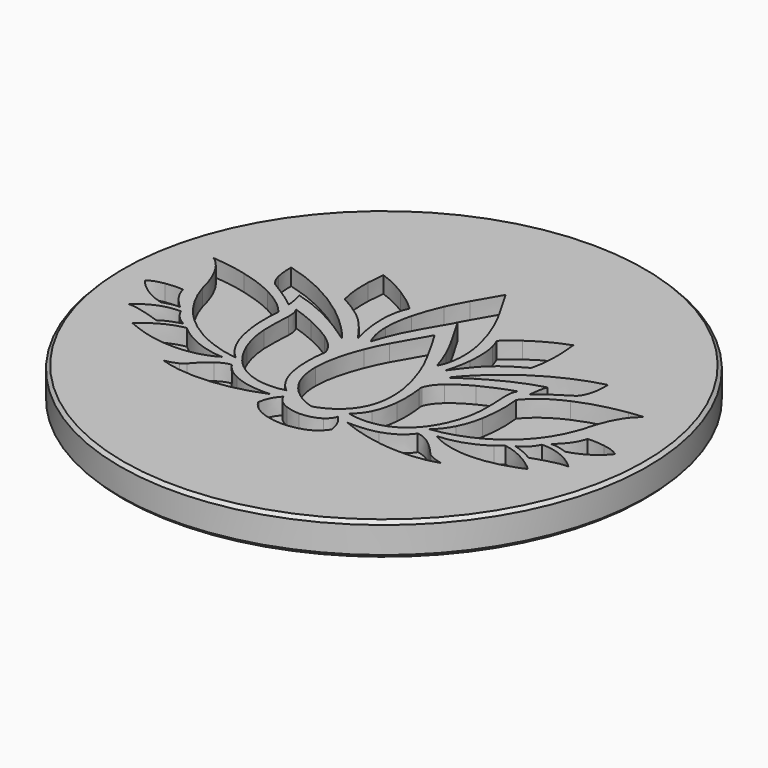
from build123d import *

# Parameters (mm, degrees)
POCKET_DEPTH = 1.25


with BuildPart() as part:
    # Sketch (on DatumPlane) → Revolution (revolve)
    with BuildSketch(Plane.YZ):
        Polygon((0, 0), (0, -2.5), (19.75, -2.5), (20, -2.25), (20, -0.25), (19.75, 0), align=None)
    revolve(axis=Axis((0, 0, 0), (0, 0, 1)))

    # Sketch005 → Pocket (cut)
    with BuildSketch(Plane.XY):
        with BuildLine():
            add(Edge.make_bspline(
                [(-1.147823, 9.565874), (-0.780123, 10.232438), (-0.409062, 10.897473), (-0.008941, 11.545074)],
                knots=[0, 0, 0, 0, 1, 1, 1, 1], degree=3))
            add(Edge.make_bspline(
                [(-0.008941, 11.545074), (0.378947, 10.91583), (0.741138, 10.270981), (1.098125, 9.623384)],
                knots=[0, 0, 0, 0, 1, 1, 1, 1], degree=3))
            add(Edge.make_bspline(
                [(1.098125, 9.623384), (1.365489, 9.125983), (1.654874, 8.638676), (1.874208, 8.117107)],
                knots=[0, 0, 0, 0, 1, 1, 1, 1], degree=3))
            add(Edge.make_bspline(
                [(1.874208, 8.117107), (2.390571, 6.93234), (2.811496, 5.684559), (2.909694, 4.388136)],
                knots=[0, 0, 0, 0, 1, 1, 1, 1], degree=3))
            add(Edge.make_bspline(
                [(2.909694, 4.388136), (2.967817, 3.545061), (2.880324, 2.662832), (2.490603, 1.901744)],
                knots=[0, 0, 0, 0, 1, 1, 1, 1], degree=3))
            add(Edge.make_bspline(
                [(2.490603, 1.901744), (2.316851, 2.470117), (2.103023, 3.026249), (1.864111, 3.570147)],
                knots=[0, 0, 0, 0, 1, 1, 1, 1], degree=3))
            add(Edge.make_bspline(
                [(1.864111, 3.570147), (1.630399, 4.123221), (1.321437, 4.638975), (1.03817, 5.16666)],
                knots=[0, 0, 0, 0, 1, 1, 1, 1], degree=3))
            add(Edge.make_bspline(
                [(1.03817, 5.16666), (0.699536, 5.778163), (0.356307, 6.387219), (-0.00894, 6.982815)],
                knots=[0, 0, 0, 0, 1, 1, 1, 1], degree=3))
            add(Edge.make_bspline(
                [(-0.00894, 6.982815), (-0.367765, 6.397925), (-0.705484, 5.800494), (-1.038003, 5.200003)],
                knots=[0, 0, 0, 0, 1, 1, 1, 1], degree=3))
            add(Edge.make_bspline(
                [(-1.038003, 5.200003), (-1.271103, 4.77021), (-1.514907, 4.345615), (-1.730571, 3.906642)],
                knots=[0, 0, 0, 0, 1, 1, 1, 1], degree=3))
            add(Edge.make_bspline(
                [(-1.730571, 3.906642), (-2.029748, 3.259648), (-2.294657, 2.596145), (-2.506344, 1.915201)],
                knots=[0, 0, 0, 0, 1, 1, 1, 1], degree=3))
            add(Edge.make_bspline(
                [(-2.506344, 1.915201), (-2.512155, 1.915814), (-2.523473, 1.917651), (-2.529288, 1.918569)],
                knots=[0, 0, 0, 0, 1, 1, 1, 1], degree=3))
            add(Edge.make_bspline(
                [(-2.529288, 1.918569), (-2.81684, 2.513858), (-2.939814, 3.178588), (-2.945928, 3.836588)],
                knots=[0, 0, 0, 0, 1, 1, 1, 1], degree=3))
            add(Edge.make_bspline(
                [(-2.945928, 3.836588), (-2.956328, 4.550262), (-2.840696, 5.260576), (-2.662049, 5.949774)],
                knots=[0, 0, 0, 0, 1, 1, 1, 1], degree=3))
            add(Edge.make_bspline(
                [(-2.662049, 5.949774), (-2.473918, 6.675382), (-2.213289, 7.380183), (-1.91442, 8.066634)],
                knots=[0, 0, 0, 0, 1, 1, 1, 1], degree=3))
            add(Edge.make_bspline(
                [(-1.91442, 8.066634), (-1.700287, 8.586674), (-1.414263, 9.071838), (-1.147823, 9.565874)],
                knots=[0, 0, 0, 0, 1, 1, 1, 1], degree=3))
        make_face()
        with BuildLine():
            add(Edge.make_bspline(
                [(-7.246943, 8.999032), (-6.499923, 8.741154), (-5.787781, 8.386305), (-5.117237, 7.968745)],
                knots=[0, 0, 0, 0, 1, 1, 1, 1], degree=3))
            add(Edge.make_bspline(
                [(-5.117237, 7.968745), (-4.485544, 7.572293), (-3.883831, 7.124756), (-3.342684, 6.610529)],
                knots=[0, 0, 0, 0, 1, 1, 1, 1], degree=3))
            add(Edge.make_bspline(
                [(-3.342684, 6.610529), (-3.666029, 5.971803), (-3.758408, 5.24589), (-3.771563, 4.538333)],
                knots=[0, 0, 0, 0, 1, 1, 1, 1], degree=3))
            add(Edge.make_bspline(
                [(-3.771563, 4.538333), (-3.775541, 3.58575), (-3.630849, 2.632853), (-3.343604, 1.724624)],
                knots=[0, 0, 0, 0, 1, 1, 1, 1], degree=3))
            add(Edge.make_bspline(
                [(-3.343604, 1.724624), (-3.954801, 2.575346), (-4.572726, 3.446562), (-5.409071, 4.094163)],
                knots=[0, 0, 0, 0, 1, 1, 1, 1], degree=3))
            add(Edge.make_bspline(
                [(-5.409071, 4.094163), (-5.932779, 4.506521), (-6.513079, 4.839651), (-7.097049, 5.158707)],
                knots=[0, 0, 0, 0, 1, 1, 1, 1], degree=3))
            add(Edge.make_bspline(
                [(-7.097049, 5.158707), (-7.336881, 5.968741), (-7.361963, 6.823133), (-7.349421, 7.661925)],
                knots=[0, 0, 0, 0, 1, 1, 1, 1], degree=3))
            add(Edge.make_bspline(
                [(-7.349421, 7.661925), (-7.334432, 8.108851), (-7.302314, 8.555165), (-7.246943, 8.999032)],
                knots=[0, 0, 0, 0, 1, 1, 1, 1], degree=3))
        make_face()
        with BuildLine():
            add(Edge.make_bspline(
                [(4.426673, 7.570457), (5.266074, 8.16483), (6.180425, 8.658867), (7.152285, 8.999339)],
                knots=[0, 0, 0, 0, 1, 1, 1, 1], degree=3))
            add(Edge.make_bspline(
                [(7.152285, 8.999339), (7.249866, 8.231214), (7.287187, 7.453909), (7.245274, 6.680276)],
                knots=[0, 0, 0, 0, 1, 1, 1, 1], degree=3))
            add(Edge.make_bspline(
                [(7.245274, 6.680276), (7.215602, 6.196642), (7.160545, 5.711479), (7.031141, 5.243749)],
                knots=[0, 0, 0, 0, 1, 1, 1, 1], degree=3))
            add(Edge.make_bspline(
                [(7.031141, 5.243749), (7.016458, 5.207957), (7.01554, 5.156874), (6.972409, 5.140965)],
                knots=[0, 0, 0, 0, 1, 1, 1, 1], degree=3))
            add(Edge.make_bspline(
                [(6.972409, 5.140965), (6.421168, 4.839344), (5.875134, 4.522731), (5.375285, 4.140047)],
                knots=[0, 0, 0, 0, 1, 1, 1, 1], degree=3))
            add(Edge.make_bspline(
                [(5.375285, 4.140047), (4.563105, 3.523037), (3.947321, 2.697401), (3.359987, 1.874215)],
                knots=[0, 0, 0, 0, 1, 1, 1, 1], degree=3))
            add(Edge.make_bspline(
                [(3.359987, 1.874215), (3.324499, 1.82343), (3.286262, 1.774489), (3.244966, 1.728604)],
                knots=[0, 0, 0, 0, 1, 1, 1, 1], degree=3))
            add(Edge.make_bspline(
                [(3.244966, 1.728604), (3.455427, 2.340719), (3.572893, 2.981587), (3.637438, 3.624599)],
                knots=[0, 0, 0, 0, 1, 1, 1, 1], degree=3))
            add(Edge.make_bspline(
                [(3.637438, 3.624599), (3.706268, 4.367026), (3.701069, 5.125977), (3.526395, 5.854332)],
                knots=[0, 0, 0, 0, 1, 1, 1, 1], degree=3))
            add(Edge.make_bspline(
                [(3.526395, 5.854332), (3.460629, 6.113432), (3.376505, 6.370086), (3.247717, 6.604717)],
                knots=[0, 0, 0, 0, 1, 1, 1, 1], degree=3))
            add(Edge.make_bspline(
                [(3.247717, 6.604717), (3.611439, 6.960178), (4.013702, 7.274649), (4.426673, 7.570457)],
                knots=[0, 0, 0, 0, 1, 1, 1, 1], degree=3))
        make_face()
        with BuildLine():
            add(Edge.make_bspline(
                [(-12.10746, 6.353265), (-9.388887, 5.654883), (-6.902496, 4.147389), (-4.952355, 2.137901)],
                knots=[0, 0, 0, 0, 1, 1, 1, 1], degree=3))
            add(Edge.make_bspline(
                [(-4.952355, 2.137901), (-4.642474, 1.813945), (-4.337183, 1.482044), (-4.073493, 1.11832)],
                knots=[0, 0, 0, 0, 1, 1, 1, 1], degree=3))
            add(Edge.make_bspline(
                [(-4.073493, 1.11832), (-5.079001, 1.834446), (-6.132537, 2.488773), (-7.249391, 3.017683)],
                knots=[0, 0, 0, 0, 1, 1, 1, 1], degree=3))
            add(Edge.make_bspline(
                [(-7.249391, 3.017683), (-7.973163, 3.359069), (-8.718651, 3.665284), (-9.495955, 3.860758)],
                knots=[0, 0, 0, 0, 1, 1, 1, 1], degree=3))
            add(Edge.make_bspline(
                [(-9.495955, 3.860758), (-9.345142, 3.429125), (-9.294977, 2.970573), (-9.245114, 2.518139)],
                knots=[0, 0, 0, 0, 1, 1, 1, 1], degree=3))
            add(Edge.make_bspline(
                [(-9.245114, 2.518139), (-9.722017, 2.953746), (-10.272033, 3.298195), (-10.81165, 3.649066)],
                knots=[0, 0, 0, 0, 1, 1, 1, 1], degree=3))
            add(Edge.make_bspline(
                [(-10.81165, 3.649066), (-11.042606, 3.797127), (-11.277848, 3.938454), (-11.510335, 4.082845)],
                knots=[0, 0, 0, 0, 1, 1, 1, 1], degree=3))
            add(Edge.make_bspline(
                [(-11.510335, 4.082845), (-11.758117, 4.323894), (-11.891796, 4.656718), (-11.978982, 4.985262)],
                knots=[0, 0, 0, 0, 1, 1, 1, 1], degree=3))
            add(Edge.make_bspline(
                [(-11.978982, 4.985262), (-12.096448, 5.430963), (-12.117554, 5.894409), (-12.10746, 6.353265)],
                knots=[0, 0, 0, 0, 1, 1, 1, 1], degree=3))
        make_face()
        with BuildLine():
            add(Edge.make_bspline(
                [(5.055308, 2.378345), (6.963843, 4.246195), (9.343475, 5.651212), (11.936321, 6.316247)],
                knots=[0, 0, 0, 0, 1, 1, 1, 1], degree=3))
            add(Edge.make_bspline(
                [(11.936321, 6.316247), (11.950083, 5.694957), (11.905425, 5.051027), (11.641125, 4.479293)],
                knots=[0, 0, 0, 0, 1, 1, 1, 1], degree=3))
            add(Edge.make_bspline(
                [(11.641125, 4.479293), (11.554858, 4.313185), (11.460942, 4.139127), (11.307989, 4.025026)],
                knots=[0, 0, 0, 0, 1, 1, 1, 1], degree=3))
            add(Edge.make_bspline(
                [(11.307989, 4.025026), (10.833532, 3.73625), (10.361829, 3.441668), (9.904506, 3.126278)],
                knots=[0, 0, 0, 0, 1, 1, 1, 1], degree=3))
            add(Edge.make_bspline(
                [(9.904506, 3.126278), (9.616642, 2.926522), (9.331853, 2.720343), (9.074582, 2.481429)],
                knots=[0, 0, 0, 0, 1, 1, 1, 1], degree=3))
            add(Edge.make_bspline(
                [(9.074582, 2.481429), (9.126891, 2.933863), (9.167576, 3.397306), (9.331853, 3.825575)],
                knots=[0, 0, 0, 0, 1, 1, 1, 1], degree=3))
            add(Edge.make_bspline(
                [(9.331853, 3.825575), (8.202755, 3.534349), (7.13607, 3.041542), (6.114957, 2.486023)],
                knots=[0, 0, 0, 0, 1, 1, 1, 1], degree=3))
            add(Edge.make_bspline(
                [(6.114957, 2.486023), (5.511713, 2.152888), (4.925911, 1.788253), (4.357843, 1.397918)],
                knots=[0, 0, 0, 0, 1, 1, 1, 1], degree=3))
            add(Edge.make_bspline(
                [(4.357843, 1.397918), (4.203973, 1.295437), (4.058362, 1.180418), (3.901431, 1.082528)],
                knots=[0, 0, 0, 0, 1, 1, 1, 1], degree=3))
            add(Edge.make_bspline(
                [(3.901431, 1.082528), (4.247108, 1.547198), (4.644782, 1.970879), (5.055308, 2.378345)],
                knots=[0, 0, 0, 0, 1, 1, 1, 1], degree=3))
        make_face()
        with BuildLine():
            add(Edge.make_bspline(
                [(-0.060635, 4.875133), (0.452056, 4.053781), (0.913976, 3.202144), (1.377416, 2.35234)],
                knots=[0, 0, 0, 0, 1, 1, 1, 1], degree=3))
            add(Edge.make_bspline(
                [(1.377416, 2.35234), (1.697702, 1.787642), (1.946708, 1.186536), (2.178888, 0.581156)],
                knots=[0, 0, 0, 0, 1, 1, 1, 1], degree=3))
            add(Edge.make_bspline(
                [(2.178888, 0.581156), (2.612965, -0.585568), (2.93233, -1.823257), (2.868092, -3.077464)],
                knots=[0, 0, 0, 0, 1, 1, 1, 1], degree=3))
            add(Edge.make_bspline(
                [(2.868092, -3.077464), (2.83016, -3.765441), (2.655486, -4.455258), (2.296355, -5.047484)],
                knots=[0, 0, 0, 0, 1, 1, 1, 1], degree=3))
            add(Edge.make_bspline(
                [(2.296355, -5.047484), (1.783352, -5.908916), (0.905407, -6.509096), (-0.044426, -6.794815)],
                knots=[0, 0, 0, 0, 1, 1, 1, 1], degree=3))
            add(Edge.make_bspline(
                [(-0.044426, -6.794815), (-1.129469, -6.498394), (-2.118149, -5.753208), (-2.594751, -4.718332)],
                knots=[0, 0, 0, 0, 1, 1, 1, 1], degree=3))
            add(Edge.make_bspline(
                [(-2.594751, -4.718332), (-2.889949, -4.093984), (-3.000075, -3.397439), (-2.999156, -2.710991)],
                knots=[0, 0, 0, 0, 1, 1, 1, 1], degree=3))
            add(Edge.make_bspline(
                [(-2.999156, -2.710991), (-2.979884, -1.481869), (-2.639413, -0.282411), (-2.190346, 0.853715)],
                knots=[0, 0, 0, 0, 1, 1, 1, 1], degree=3))
            add(Edge.make_bspline(
                [(-2.190346, 0.853715), (-1.982943, 1.374365), (-1.759019, 1.88951), (-1.480953, 2.376814)],
                knots=[0, 0, 0, 0, 1, 1, 1, 1], degree=3))
            add(Edge.make_bspline(
                [(-1.480953, 2.376814), (-1.023626, 3.218664), (-0.5611, 4.058064), (-0.060635, 4.875133)],
                knots=[0, 0, 0, 0, 1, 1, 1, 1], degree=3))
        make_face()
        with BuildLine():
            add(Edge.make_bspline(
                [(-16.46262, 4.437385), (-15.562343, 4.377427), (-14.670021, 4.221722), (-13.794217, 4.006976)],
                knots=[0, 0, 0, 0, 1, 1, 1, 1], degree=3))
            add(Edge.make_bspline(
                [(-13.794217, 4.006976), (-12.944107, 3.792233), (-12.107765, 3.509885), (-11.323427, 3.115569)],
                knots=[0, 0, 0, 0, 1, 1, 1, 1], degree=3))
            add(Edge.make_bspline(
                [(-11.323427, 3.115569), (-10.491977, 2.698931), (-9.708555, 2.151665), (-9.122445, 1.421781)],
                knots=[0, 0, 0, 0, 1, 1, 1, 1], degree=3))
            add(Edge.make_bspline(
                [(-9.122445, 1.421781), (-9.221864, 0.569222), (-9.216356, -0.294957), (-9.112654, -1.146897)],
                knots=[0, 0, 0, 0, 1, 1, 1, 1], degree=3))
            add(Edge.make_bspline(
                [(-9.112654, -1.146897), (-8.980505, -2.184836), (-8.684082, -3.235001), (-8.050554, -4.083885)],
                knots=[0, 0, 0, 0, 1, 1, 1, 1], degree=3))
            add(Edge.make_bspline(
                [(-8.050554, -4.083885), (-7.874966, -4.320042), (-7.669398, -4.53204), (-7.447006, -4.724454)],
                knots=[0, 0, 0, 0, 1, 1, 1, 1], degree=3))
            add(Edge.make_bspline(
                [(-7.447006, -4.724454), (-8.624125, -4.585267), (-9.768514, -4.196463), (-10.803694, -3.621975)],
                knots=[0, 0, 0, 0, 1, 1, 1, 1], degree=3))
            add(Edge.make_bspline(
                [(-10.803694, -3.621975), (-11.795131, -3.067977), (-12.677358, -2.312089), (-13.349735, -1.394989)],
                knots=[0, 0, 0, 0, 1, 1, 1, 1], degree=3))
            add(Edge.make_bspline(
                [(-13.349735, -1.394989), (-13.884456, -0.669691), (-14.287027, 0.149522), (-14.557751, 1.007892)],
                knots=[0, 0, 0, 0, 1, 1, 1, 1], degree=3))
            add(Edge.make_bspline(
                [(-14.557751, 1.007892), (-14.740073, 1.80936), (-15.014162, 2.597064), (-15.43478, 3.305842)],
                knots=[0, 0, 0, 0, 1, 1, 1, 1], degree=3))
            add(Edge.make_bspline(
                [(-15.43478, 3.305842), (-15.699085, 3.744205), (-16.029765, 4.155952), (-16.46262, 4.437385)],
                knots=[0, 0, 0, 0, 1, 1, 1, 1], degree=3))
        make_face()
        with BuildLine():
            add(Edge.make_bspline(
                [(15.068778, 4.308904), (15.448102, 4.366108), (15.829565, 4.412606), (16.212866, 4.437385)],
                knots=[0, 0, 0, 0, 1, 1, 1, 1], degree=3))
            add(Edge.make_bspline(
                [(16.212866, 4.437385), (15.827425, 4.163906), (15.508674, 3.805998), (15.259662, 3.40526)],
                knots=[0, 0, 0, 0, 1, 1, 1, 1], degree=3))
            add(Edge.make_bspline(
                [(15.259662, 3.40526), (14.881875, 2.803243), (14.622468, 2.133927), (14.431586, 1.451453)],
                knots=[0, 0, 0, 0, 1, 1, 1, 1], degree=3))
            add(Edge.make_bspline(
                [(14.431586, 1.451453), (14.37499, 1.258732), (14.345319, 1.058975), (14.276182, 0.869928)],
                knots=[0, 0, 0, 0, 1, 1, 1, 1], degree=3))
            add(Edge.make_bspline(
                [(14.276182, 0.869928), (13.906343, -0.247236), (13.301875, -1.291897), (12.48542, -2.142007)],
                knots=[0, 0, 0, 0, 1, 1, 1, 1], degree=3))
            add(Edge.make_bspline(
                [(12.48542, -2.142007), (11.705667, -2.964587), (10.742069, -3.602395), (9.702302, -4.047487)],
                knots=[0, 0, 0, 0, 1, 1, 1, 1], degree=3))
            add(Edge.make_bspline(
                [(9.702302, -4.047487), (8.908174, -4.382755), (8.070306, -4.628705), (7.211935, -4.72262)],
                knots=[0, 0, 0, 0, 1, 1, 1, 1], degree=3))
            add(Edge.make_bspline(
                [(7.211935, -4.72262), (7.629798, -4.368074), (7.968743, -3.925738), (8.215916, -3.43721)],
                knots=[0, 0, 0, 0, 1, 1, 1, 1], degree=3))
            add(Edge.make_bspline(
                [(8.215916, -3.43721), (8.505302, -2.874647), (8.686699, -2.261314), (8.800189, -1.640633)],
                knots=[0, 0, 0, 0, 1, 1, 1, 1], degree=3))
            add(Edge.make_bspline(
                [(8.800189, -1.640633), (8.978841, -0.631761), (9.000865, 0.40434), (8.885536, 1.421473)],
                knots=[0, 0, 0, 0, 1, 1, 1, 1], degree=3))
            add(Edge.make_bspline(
                [(8.885536, 1.421473), (9.569238, 2.268826), (10.509587, 2.870232), (11.495515, 3.308902)],
                knots=[0, 0, 0, 0, 1, 1, 1, 1], degree=3))
            add(Edge.make_bspline(
                [(11.495515, 3.308902), (12.631026, 3.810894), (13.844251, 4.119551), (15.068778, 4.308904)],
                knots=[0, 0, 0, 0, 1, 1, 1, 1], degree=3))
        make_face()
        with BuildLine():
            add(Edge.make_bspline(
                [(-8.540614, 2.340413), (-7.970101, 2.159007), (-7.41152, 1.940288), (-6.864257, 1.697096)],
                knots=[0, 0, 0, 0, 1, 1, 1, 1], degree=3))
            add(Edge.make_bspline(
                [(-6.864257, 1.697096), (-6.23287, 1.41291), (-5.614025, 1.094159), (-5.046575, 0.695259)],
                knots=[0, 0, 0, 0, 1, 1, 1, 1], degree=3))
            add(Edge.make_bspline(
                [(-5.046575, 0.695259), (-4.640946, 0.406786), (-4.251832, 0.076416), (-3.977743, -0.34451)],
                knots=[0, 0, 0, 0, 1, 1, 1, 1], degree=3))
            add(Edge.make_bspline(
                [(-3.977743, -0.34451), (-3.871901, -0.516432), (-3.773401, -0.702424), (-3.743114, -0.90401)],
                knots=[0, 0, 0, 0, 1, 1, 1, 1], degree=3))
            add(Edge.make_bspline(
                [(-3.743114, -0.90401), (-3.8667, -1.703648), (-3.903105, -2.520106), (-3.814391, -3.325553)],
                knots=[0, 0, 0, 0, 1, 1, 1, 1], degree=3))
            add(Edge.make_bspline(
                [(-3.814391, -3.325553), (-3.75076, -3.893305), (-3.622588, -4.459536), (-3.380311, -4.979266)],
                knots=[0, 0, 0, 0, 1, 1, 1, 1], degree=3))
            add(Edge.make_bspline(
                [(-3.380311, -4.979266), (-3.177803, -5.420693), (-2.877711, -5.818674), (-2.496249, -6.120904)],
                knots=[0, 0, 0, 0, 1, 1, 1, 1], degree=3))
            add(Edge.make_bspline(
                [(-2.496249, -6.120904), (-3.693249, -6.430177), (-5.039535, -6.26774), (-6.066457, -5.554676)],
                knots=[0, 0, 0, 0, 1, 1, 1, 1], degree=3))
            add(Edge.make_bspline(
                [(-6.066457, -5.554676), (-6.916261, -4.974069), (-7.48922, -4.074713), (-7.873126, -3.136192)],
                knots=[0, 0, 0, 0, 1, 1, 1, 1], degree=3))
            add(Edge.make_bspline(
                [(-7.873126, -3.136192), (-8.16343, -2.425271), (-8.321583, -1.664184), (-8.365329, -0.898811)],
                knots=[0, 0, 0, 0, 1, 1, 1, 1], degree=3))
            add(Edge.make_bspline(
                [(-8.365329, -0.898811), (-8.415498, -0.146283), (-8.336266, 0.605625), (-8.314241, 1.357847)],
                knots=[0, 0, 0, 0, 1, 1, 1, 1], degree=3))
            add(Edge.make_bspline(
                [(-8.314241, 1.357847), (-8.318528, 1.69434), (-8.331071, 2.059588), (-8.540614, 2.340413)],
                knots=[0, 0, 0, 0, 1, 1, 1, 1], degree=3))
        make_face()
        with BuildLine():
            add(Edge.make_bspline(
                [(5.890429, 1.340407), (6.667117, 1.738695), (7.477152, 2.072747), (8.307985, 2.339802)],
                knots=[0, 0, 0, 0, 1, 1, 1, 1], degree=3))
            add(Edge.make_bspline(
                [(8.307985, 2.339802), (8.098445, 2.05867), (8.087123, 1.693728), (8.08315, 1.357539)],
                knots=[0, 0, 0, 0, 1, 1, 1, 1], degree=3))
            add(Edge.make_bspline(
                [(8.08315, 1.357539), (8.105174, 0.584518), (8.188379, -0.188809), (8.129955, -0.962137)],
                knots=[0, 0, 0, 0, 1, 1, 1, 1], degree=3))
            add(Edge.make_bspline(
                [(8.129955, -0.962137), (8.057144, -2.191565), (7.653046, -3.400806), (6.957726, -4.418244)],
                knots=[0, 0, 0, 0, 1, 1, 1, 1], degree=3))
            add(Edge.make_bspline(
                [(6.957726, -4.418244), (6.631941, -4.888721), (6.223556, -5.305979), (5.74145, -5.616776)],
                knots=[0, 0, 0, 0, 1, 1, 1, 1], degree=3))
            add(Edge.make_bspline(
                [(5.74145, -5.616776), (4.727685, -6.278138), (3.428506, -6.419469), (2.268209, -6.121824)],
                knots=[0, 0, 0, 0, 1, 1, 1, 1], degree=3))
            add(Edge.make_bspline(
                [(2.268209, -6.121824), (2.625507, -5.828154), (2.920399, -5.460455), (3.119237, -5.042286)],
                knots=[0, 0, 0, 0, 1, 1, 1, 1], degree=3))
            add(Edge.make_bspline(
                [(3.119237, -5.042286), (3.393632, -4.477282), (3.530983, -3.85507), (3.592778, -3.233171)],
                knots=[0, 0, 0, 0, 1, 1, 1, 1], degree=3))
            add(Edge.make_bspline(
                [(3.592778, -3.233171), (3.660994, -2.528366), (3.636828, -1.816219), (3.542607, -1.115089)],
                knots=[0, 0, 0, 0, 1, 1, 1, 1], degree=3))
            add(Edge.make_bspline(
                [(3.542607, -1.115089), (3.532515, -1.01169), (3.489381, -0.905542), (3.530676, -0.804592)],
                knots=[0, 0, 0, 0, 1, 1, 1, 1], degree=3))
            add(Edge.make_bspline(
                [(3.530676, -0.804592), (3.669253, -0.354913), (3.988313, 0.011865), (4.334595, 0.318381)],
                knots=[0, 0, 0, 0, 1, 1, 1, 1], degree=3))
            add(Edge.make_bspline(
                [(4.334595, 0.318381), (4.803856, 0.727985), (5.340713, 1.051941), (5.890429, 1.340407)],
                knots=[0, 0, 0, 0, 1, 1, 1, 1], degree=3))
        make_face()
        with BuildLine():
            add(Edge.make_bspline(
                [(-16.674614, 0.091098), (-16.235331, 0.155946), (-15.789019, 0.181339), (-15.345151, 0.155946)],
                knots=[0, 0, 0, 0, 1, 1, 1, 1], degree=3))
            add(Edge.make_bspline(
                [(-15.345151, 0.155946), (-15.263172, -0.199817), (-15.091253, -0.528972), (-14.883849, -0.82784)],
                knots=[0, 0, 0, 0, 1, 1, 1, 1], degree=3))
            add(Edge.make_bspline(
                [(-14.883849, -0.82784), (-14.655033, -1.154544), (-14.380638, -1.448215), (-14.07626, -1.70609)],
                knots=[0, 0, 0, 0, 1, 1, 1, 1], degree=3))
            add(Edge.make_bspline(
                [(-14.07626, -1.70609), (-14.509421, -1.670608), (-14.927897, -1.816831), (-15.333526, -1.945617)],
                knots=[0, 0, 0, 0, 1, 1, 1, 1], degree=3))
            add(Edge.make_bspline(
                [(-15.333526, -1.945617), (-16.305691, -1.699976), (-17.214225, -1.148735), (-17.834295, -0.35522)],
                knots=[0, 0, 0, 0, 1, 1, 1, 1], degree=3))
            add(Edge.make_bspline(
                [(-17.834295, -0.35522), (-17.509425, -0.082355), (-17.083608, 0.021351), (-16.674614, 0.091098)],
                knots=[0, 0, 0, 0, 1, 1, 1, 1], degree=3))
        make_face()
        with BuildLine():
            add(Edge.make_bspline(
                [(15.303105, 0.155027), (15.737487, 0.182257), (16.174932, 0.156558), (16.605642, 0.094766)],
                knots=[0, 0, 0, 0, 1, 1, 1, 1], degree=3))
            add(Edge.make_bspline(
                [(16.605642, 0.094766), (17.023817, 0.027162), (17.460037, -0.078373), (17.792246, -0.356444)],
                knots=[0, 0, 0, 0, 1, 1, 1, 1], degree=3))
            add(Edge.make_bspline(
                [(17.792246, -0.356444), (17.168512, -1.152101), (16.256913, -1.699974), (15.282912, -1.950508)],
                knots=[0, 0, 0, 0, 1, 1, 1, 1], degree=3))
            add(Edge.make_bspline(
                [(15.282912, -1.950508), (14.883711, -1.804897), (14.463094, -1.677032), (14.033603, -1.705478)],
                knots=[0, 0, 0, 0, 1, 1, 1, 1], degree=3))
            add(Edge.make_bspline(
                [(14.033603, -1.705478), (14.604417, -1.210221), (15.116501, -0.591989), (15.303105, 0.155027)],
                knots=[0, 0, 0, 0, 1, 1, 1, 1], degree=3))
        make_face()
        with BuildLine():
            add(Edge.make_bspline(
                [(-16.676447, -3.319736), (-15.899755, -2.545191), (-14.803701, -2.077769), (-13.702139, -2.107439)],
                knots=[0, 0, 0, 0, 1, 1, 1, 1], degree=3))
            add(Edge.make_bspline(
                [(-13.702139, -2.107439), (-13.566315, -2.419461), (-13.35188, -2.695388), (-13.092163, -2.914412)],
                knots=[0, 0, 0, 0, 1, 1, 1, 1], degree=3))
            add(Edge.make_bspline(
                [(-13.092163, -2.914412), (-12.946858, -3.048095), (-12.76913, -3.135888), (-12.605166, -3.242647)],
                knots=[0, 0, 0, 0, 1, 1, 1, 1], degree=3))
            add(Edge.make_bspline(
                [(-12.605166, -3.242647), (-13.128567, -3.407534), (-13.665734, -3.582815), (-14.110521, -3.914418)],
                knots=[0, 0, 0, 0, 1, 1, 1, 1], degree=3))
            add(Edge.make_bspline(
                [(-14.110521, -3.914418), (-14.701224, -3.710682), (-15.299265, -3.521634), (-15.912605, -3.398048)],
                knots=[0, 0, 0, 0, 1, 1, 1, 1], degree=3))
            add(Edge.make_bspline(
                [(-15.912605, -3.398048), (-16.164057, -3.34666), (-16.419487, -3.313619), (-16.676447, -3.319736)],
                knots=[0, 0, 0, 0, 1, 1, 1, 1], degree=3))
        make_face()
        with BuildLine():
            add(Edge.make_bspline(
                [(12.557, -3.240205), (13.035433, -2.995481), (13.44443, -2.601168), (13.662229, -2.105604)],
                knots=[0, 0, 0, 0, 1, 1, 1, 1], degree=3))
            add(Edge.make_bspline(
                [(13.662229, -2.105604), (14.763793, -2.080823), (15.857706, -2.547021), (16.635933, -3.320349)],
                knots=[0, 0, 0, 0, 1, 1, 1, 1], degree=3))
            add(Edge.make_bspline(
                [(16.635933, -3.320349), (16.344403, -3.310558), (16.055933, -3.357363), (15.772358, -3.418542)],
                knots=[0, 0, 0, 0, 1, 1, 1, 1], degree=3))
            add(Edge.make_bspline(
                [(15.772358, -3.418542), (15.192365, -3.541211), (14.626747, -3.72231), (14.066636, -3.914115)],
                knots=[0, 0, 0, 0, 1, 1, 1, 1], degree=3))
            add(Edge.make_bspline(
                [(14.066636, -3.914115), (13.62002, -3.581897), (13.081318, -3.40784), (12.557, -3.240205)],
                knots=[0, 0, 0, 0, 1, 1, 1, 1], degree=3))
        make_face()
        with BuildLine():
            add(Edge.make_bspline(
                [(-14.90526, -4.974682), (-14.100428, -4.290064), (-13.148147, -3.727202), (-12.093084, -3.555893)],
                knots=[0, 0, 0, 0, 1, 1, 1, 1], degree=3))
            add(Edge.make_bspline(
                [(-12.093084, -3.555893), (-11.01477, -4.51858), (-9.589559, -5.068596), (-8.150588, -5.14446)],
                knots=[0, 0, 0, 0, 1, 1, 1, 1], degree=3))
            add(Edge.make_bspline(
                [(-8.150588, -5.14446), (-8.578241, -5.421909), (-9.065242, -5.595974), (-9.555605, -5.725985)],
                knots=[0, 0, 0, 0, 1, 1, 1, 1], degree=3))
            add(Edge.make_bspline(
                [(-9.555605, -5.725985), (-10.888126, -6.063092), (-12.302628, -5.961836), (-13.614346, -5.580681)],
                knots=[0, 0, 0, 0, 1, 1, 1, 1], degree=3))
            add(Edge.make_bspline(
                [(-13.614346, -5.580681), (-14.084522, -5.445161), (-14.54399, -5.274164), (-14.991529, -5.077768)],
                knots=[0, 0, 0, 0, 1, 1, 1, 1], degree=3))
            add(Edge.make_bspline(
                [(-14.991529, -5.077768), (-14.991221, -5.027603), (-14.934629, -5.006803), (-14.90526, -4.974682)],
                knots=[0, 0, 0, 0, 1, 1, 1, 1], degree=3))
        make_face()
        with BuildLine():
            add(Edge.make_bspline(
                [(11.511728, -3.985079), (11.696795, -3.852627), (11.88095, -3.716187), (12.043691, -3.5562)],
                knots=[0, 0, 0, 0, 1, 1, 1, 1], degree=3))
            add(Edge.make_bspline(
                [(12.043691, -3.5562), (12.891353, -3.685595), (13.673247, -4.087864), (14.36489, -4.581591)],
                knots=[0, 0, 0, 0, 1, 1, 1, 1], degree=3))
            add(Edge.make_bspline(
                [(14.36489, -4.581591), (14.56679, -4.734238), (14.778476, -4.882298), (14.952541, -5.066146)],
                knots=[0, 0, 0, 0, 1, 1, 1, 1], degree=3))
            add(Edge.make_bspline(
                [(14.952541, -5.066146), (14.779086, -5.165565), (14.581168, -5.226134), (14.395789, -5.304447)],
                knots=[0, 0, 0, 0, 1, 1, 1, 1], degree=3))
            add(Edge.make_bspline(
                [(14.395789, -5.304447), (13.107628, -5.796949), (11.705666, -6.04749), (10.328789, -5.877712)],
                knots=[0, 0, 0, 0, 1, 1, 1, 1], degree=3))
            add(Edge.make_bspline(
                [(10.328789, -5.877712), (9.659475, -5.794813), (8.997801, -5.616163), (8.393638, -5.313014)],
                knots=[0, 0, 0, 0, 1, 1, 1, 1], degree=3))
            add(Edge.make_bspline(
                [(8.393638, -5.313014), (8.300037, -5.260698), (8.199393, -5.217874), (8.119855, -5.145684)],
                knots=[0, 0, 0, 0, 1, 1, 1, 1], degree=3))
            add(Edge.make_bspline(
                [(8.119855, -5.145684), (9.327873, -5.078381), (10.517537, -4.676426), (11.511728, -3.985079)],
                knots=[0, 0, 0, 0, 1, 1, 1, 1], degree=3))
        make_face()
        with BuildLine():
            add(Edge.make_bspline(
                [(-8.079921, -5.991508), (-7.774323, -5.782572), (-7.42896, -5.599643), (-7.052694, -5.578536)],
                knots=[0, 0, 0, 0, 1, 1, 1, 1], degree=3))
            add(Edge.make_bspline(
                [(-7.052694, -5.578536), (-6.774322, -6.043204), (-6.317605, -6.375113), (-5.838864, -6.612496)],
                knots=[0, 0, 0, 0, 1, 1, 1, 1], degree=3))
            add(Edge.make_bspline(
                [(-5.838864, -6.612496), (-4.93981, -7.048102), (-3.918094, -7.130084), (-2.933691, -7.08909)],
                knots=[0, 0, 0, 0, 1, 1, 1, 1], degree=3))
            add(Edge.make_bspline(
                [(-2.933691, -7.08909), (-4.128248, -7.598424), (-5.405094, -7.911363), (-6.696315, -8.039231)],
                knots=[0, 0, 0, 0, 1, 1, 1, 1], degree=3))
            add(Edge.make_bspline(
                [(-6.696315, -8.039231), (-7.984172, -8.157313), (-9.305068, -8.075938), (-10.541536, -7.678261)],
                knots=[0, 0, 0, 0, 1, 1, 1, 1], degree=3))
            add(Edge.make_bspline(
                [(-10.541536, -7.678261), (-10.220946, -7.603929), (-9.899746, -7.518887), (-9.602714, -7.373581)],
                knots=[0, 0, 0, 0, 1, 1, 1, 1], degree=3))
            add(Edge.make_bspline(
                [(-9.602714, -7.373581), (-9.472399, -7.306592), (-9.343307, -7.227665), (-9.249699, -7.112337)],
                knots=[0, 0, 0, 0, 1, 1, 1, 1], degree=3))
            add(Edge.make_bspline(
                [(-9.249699, -7.112337), (-8.902498, -6.697845), (-8.525013, -6.301998), (-8.079921, -5.991508)],
                knots=[0, 0, 0, 0, 1, 1, 1, 1], degree=3))
        make_face()
        with BuildLine():
            add(Edge.make_bspline(
                [(5.130254, -6.867309), (5.870541, -6.647672), (6.59737, -6.238987), (7.020439, -5.573032)],
                knots=[0, 0, 0, 0, 1, 1, 1, 1], degree=3))
            add(Edge.make_bspline(
                [(7.020439, -5.573032), (7.508354, -5.624728), (7.938763, -5.89545), (8.310435, -6.200137)],
                knots=[0, 0, 0, 0, 1, 1, 1, 1], degree=3))
            add(Edge.make_bspline(
                [(8.310435, -6.200137), (8.571372, -6.416099), (8.809368, -6.658993), (9.034509, -6.911976)],
                knots=[0, 0, 0, 0, 1, 1, 1, 1], degree=3))
            add(Edge.make_bspline(
                [(9.034509, -6.911976), (9.15259, -7.038618), (9.248343, -7.191264), (9.400072, -7.282729)],
                knots=[0, 0, 0, 0, 1, 1, 1, 1], degree=3))
            add(Edge.make_bspline(
                [(9.400072, -7.282729), (9.731974, -7.488601), (10.115577, -7.587714), (10.492147, -7.677649)],
                knots=[0, 0, 0, 0, 1, 1, 1, 1], degree=3))
            add(Edge.make_bspline(
                [(10.492147, -7.677649), (9.102732, -8.128252), (7.607469, -8.172914), (6.167573, -7.983553)],
                knots=[0, 0, 0, 0, 1, 1, 1, 1], degree=3))
            add(Edge.make_bspline(
                [(6.167573, -7.983553), (5.042763, -7.826933), (3.93417, -7.535406), (2.888585, -7.090006)],
                knots=[0, 0, 0, 0, 1, 1, 1, 1], degree=3))
            add(Edge.make_bspline(
                [(2.888585, -7.090006), (3.640195, -7.116014), (4.404956, -7.08481), (5.130254, -6.867309)],
                knots=[0, 0, 0, 0, 1, 1, 1, 1], degree=3))
        make_face()
        with BuildLine():
            add(Edge.make_bspline(
                [(-2.843757, -8.242354), (-2.744645, -7.724146), (-2.517662, -7.212064), (-2.119987, -6.854155)],
                knots=[0, 0, 0, 0, 1, 1, 1, 1], degree=3))
            add(Edge.make_bspline(
                [(-2.119987, -6.854155), (-1.977741, -7.29252), (-1.574863, -7.587102), (-1.161283, -7.749538)],
                knots=[0, 0, 0, 0, 1, 1, 1, 1], degree=3))
            add(Edge.make_bspline(
                [(-1.161283, -7.749538), (-0.80521, -7.888115), (-0.422829, -7.955412), (-0.041977, -7.971933)],
                knots=[0, 0, 0, 0, 1, 1, 1, 1], degree=3))
            add(Edge.make_bspline(
                [(-0.041977, -7.971933), (0.481731, -7.951745), (1.025628, -7.850488), (1.465212, -7.548253)],
                knots=[0, 0, 0, 0, 1, 1, 1, 1], degree=3))
            add(Edge.make_bspline(
                [(1.465212, -7.548253), (1.705656, -7.378788), (1.909079, -7.14201), (1.991675, -6.855689)],
                knots=[0, 0, 0, 0, 1, 1, 1, 1], degree=3))
            add(Edge.make_bspline(
                [(1.991675, -6.855689), (2.408012, -7.227358), (2.63744, -7.770951), (2.726459, -8.313626)],
                knots=[0, 0, 0, 0, 1, 1, 1, 1], degree=3))
            add(Edge.make_bspline(
                [(2.726459, -8.313626), (2.640499, -8.524399), (2.477146, -8.69968), (2.312874, -8.855993)],
                knots=[0, 0, 0, 0, 1, 1, 1, 1], degree=3))
            add(Edge.make_bspline(
                [(2.312874, -8.855993), (1.915505, -9.21482), (1.400666, -9.414269), (0.882772, -9.52256)],
                knots=[0, 0, 0, 0, 1, 1, 1, 1], degree=3))
            add(Edge.make_bspline(
                [(0.882772, -9.52256), (0.10608, -9.687447), (-0.713133, -9.646146), (-1.468103, -9.400811)],
                knots=[0, 0, 0, 0, 1, 1, 1, 1], degree=3))
            add(Edge.make_bspline(
                [(-1.468103, -9.400811), (-1.972845, -9.232257), (-2.459235, -8.941955), (-2.759328, -8.491664)],
                knots=[0, 0, 0, 0, 1, 1, 1, 1], degree=3))
            add(Edge.make_bspline(
                [(-2.759328, -8.491664), (-2.805519, -8.416107), (-2.880465, -8.337488), (-2.843757, -8.242354)],
                knots=[0, 0, 0, 0, 1, 1, 1, 1], degree=3))
        make_face()
    extrude(amount=-POCKET_DEPTH, mode=Mode.SUBTRACT)


solid = part.part
